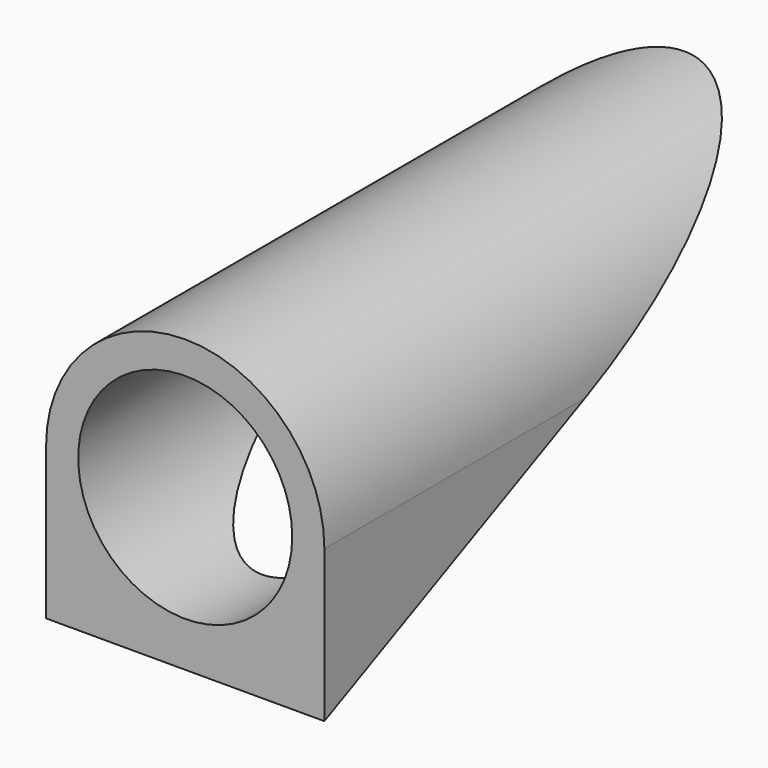
from build123d import *

# Parameters (mm, degrees)
F0_W     = 55.88
F0_H     = 30.48
F1_DEPTH = 127
F2_R     = 21.4884
F3_DEPTH = 127.001
F5_DEPTH = 55.881


with BuildPart() as f1:
    # F0 (on Front) → F1 (new body)
    with BuildSketch(Plane.XZ):
        with BuildLine():
            Line((-27.94, 15.24), (27.94, 15.24))
            ThreePointArc((27.94, 15.24), (0, 43.18), (-27.94, 15.24))
        make_face()
        Rectangle(F0_W, F0_H)
    extrude(amount=-F1_DEPTH)

    # F2 (on face) → F3 (cut, through all)
    with BuildSketch(Plane.XZ):
        with Locations((0, 15.24)):
            Circle(F2_R)
    extrude(amount=-F3_DEPTH, mode=Mode.SUBTRACT)

    # F4 (on face) → F5 (cut, through all)
    with BuildSketch(Plane.YZ.offset(27.94)):
        Polygon((267.642255, 109.563633), (0, -15.24), (267.642255, -15.24), align=None)
    extrude(amount=-F5_DEPTH, mode=Mode.SUBTRACT)


solid = f1.part
